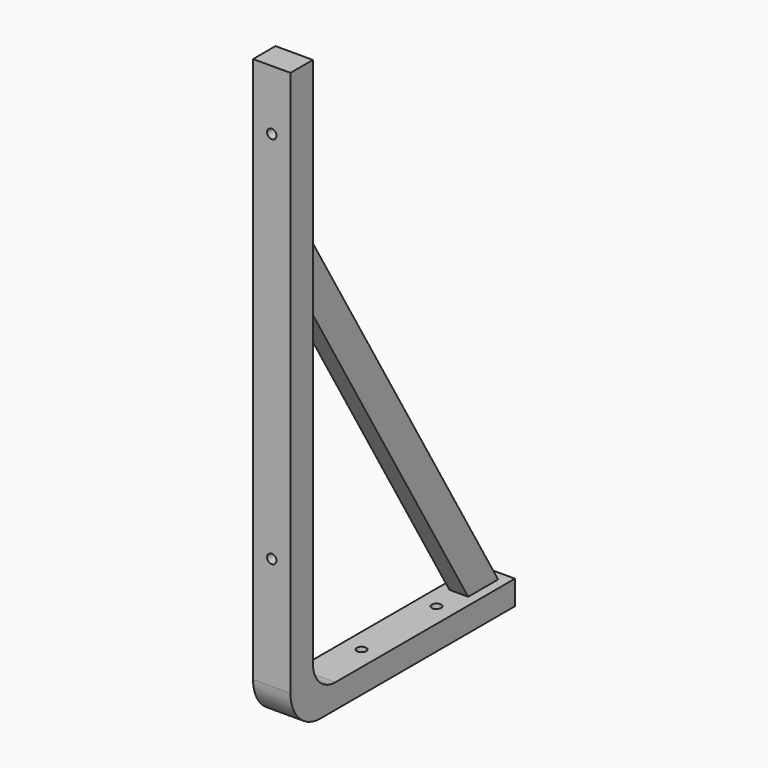
from build123d import *

# Parameters (mm, degrees)
F1_DEPTH  = 25.4
F2_R      = 25.4
F3_R      = 19.05
F5_DEPTH  = 25.4
F7_DEPTH  = 6.35
F9_DEPTH  = 6.35
F10_R     = 3.175
F11_DEPTH = 25.4
F12_R     = 3.175
F13_DEPTH = 25.4


with BuildPart() as f1:
    # F0 (on Right) → F1 (new body)
    with BuildSketch(Plane.YZ):
        Polygon((19.05, 0), (0, 0), (0, -396.24), (190.5, -396.24), (190.5, -379.73), (19.05, -379.73), align=None)
    extrude(amount=F1_DEPTH)

    # F2
    f2_edges = [f1.edges().sort_by_distance(p)[0] for p in [
        (12.7, 0, -396.24),
    ]]
    fillet(f2_edges, radius=F2_R)

    # F3
    f3_edges = [f1.edges().sort_by_distance(p)[0] for p in [
        (12.7, 19.05, -379.73),
    ]]
    fillet(f3_edges, radius=F3_R)

    # F4 (on face) → F5 (join)
    with BuildSketch(Plane(origin=(0, 0, 0), x_dir=(0, -1, 0), z_dir=(-1, 0, 0))):
        Polygon((-19.05, -101.6), (-184.15, -379.73), (-158.75, -379.73), (-19.05, -144.389231), align=None)
    extrude(amount=-F5_DEPTH)

    # F6 (on face) → F7 (cut)
    with BuildSketch(Plane(origin=(0, 0, 0), x_dir=(0, -1, 0), z_dir=(-1, 0, 0))):
        Polygon((-19.05, -144.389231), (-19.05, -101.6), (-184.15, -379.73), (-158.75, -379.73), align=None)
    extrude(amount=-F7_DEPTH, mode=Mode.SUBTRACT)

    # F8 (on face) → F9 (cut)
    with BuildSketch(Plane.YZ.offset(25.4)):
        Polygon((158.75, -379.73), (184.15, -379.73), (19.05, -101.6), (19.05, -144.389231), align=None)
    extrude(amount=-F9_DEPTH, mode=Mode.SUBTRACT)

    # F10 (on face) → F11 (cut)
    with BuildSketch(Plane.XY.offset(-379.73)):
        with Locations((12.7, 76.2)):
            Circle(F10_R)
        with Locations((12.7, 139.7)):
            Circle(F10_R)
    extrude(amount=-F11_DEPTH, mode=Mode.SUBTRACT)

    # F12 (on face) → F13 (cut)
    with BuildSketch(Plane.XZ):
        with Locations((12.7, -40.64)):
            Circle(F12_R)
        with Locations((12.7, -294.64)):
            Circle(F12_R)
    extrude(amount=-F13_DEPTH, mode=Mode.SUBTRACT)


solid = f1.part
